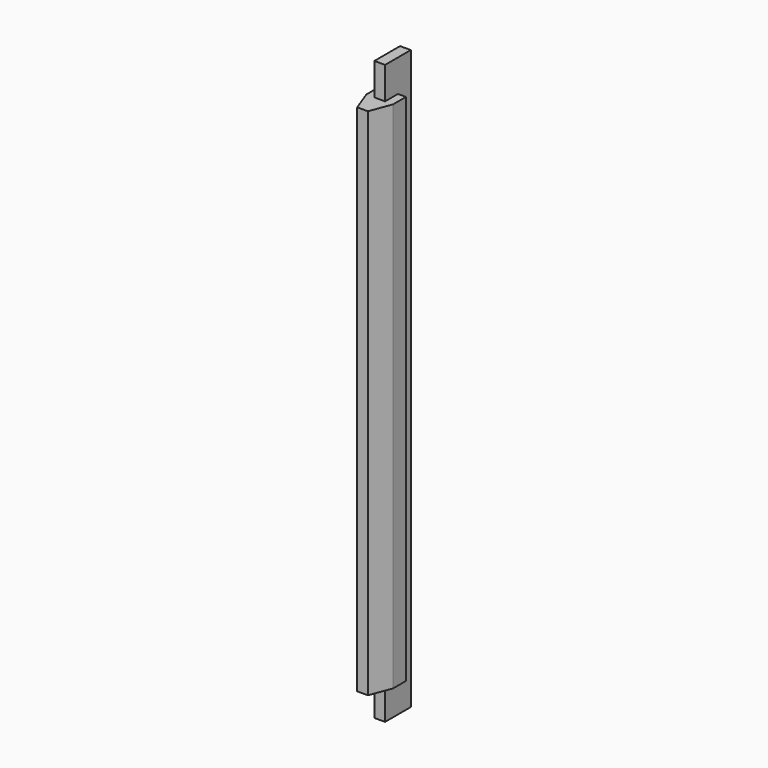
from build123d import *

# Parameters (mm, degrees)
F1_DEPTH = 304.8
F3_DEPTH = 19.05
F5_DEPTH = 19.05


with BuildPart() as f1:
    # F0 (on Top) → F1 (new body)
    with BuildSketch(Plane.XY):
        Polygon((6.35, 0), (0, 0), (0, -9.525), (-4.7625, -9.525), (-4.7625, -19.05), (0, -31.75), (6.35, -31.75), (11.1125, -19.05), (11.1125, -9.525), (6.35, -9.525), align=None)
    extrude(amount=F1_DEPTH)

    # F2 (on face) → F3 (join)
    with BuildSketch(Plane(origin=(0, 0, 0), x_dir=(1, 0, 0), z_dir=(0, 0, -1))):
        Polygon((6.35, 9.525), (6.35, 19.05), (0, 19.05), (0, 9.525), (0, 0), (6.35, 0), align=None)
    extrude(amount=F3_DEPTH)

    # F4 (on face) → F5 (join)
    with BuildSketch(Plane.XY.offset(304.8)):
        Polygon((0, 0), (0, -9.525), (0, -19.05), (6.35, -19.05), (6.35, -9.525), (6.35, 0), align=None)
    extrude(amount=F5_DEPTH)


solid = f1.part
